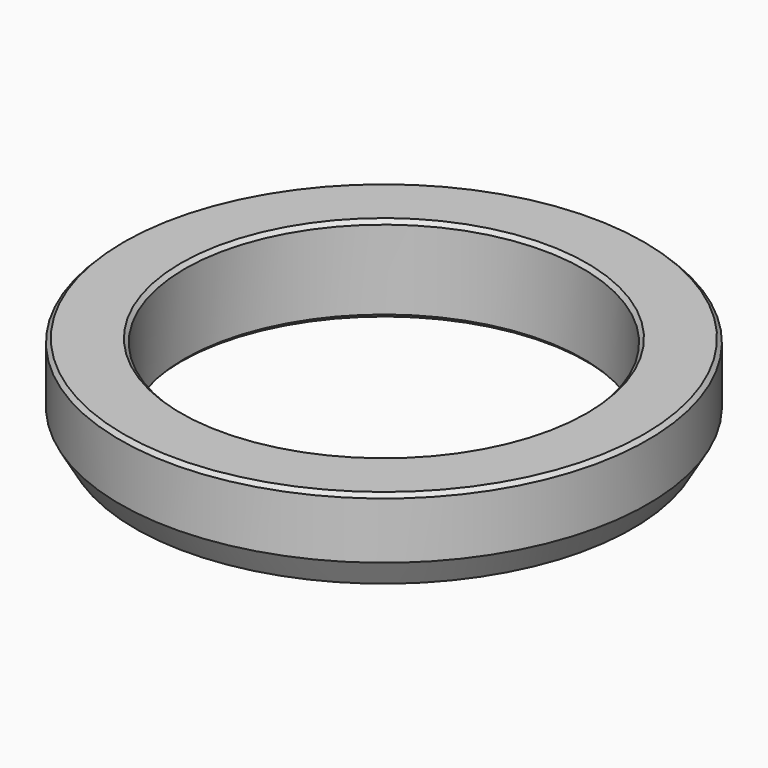
from build123d import *

# Parameters (mm, degrees)
F2_SIZE = 0.5


with BuildPart() as f1:
    # F0 (on Front) → F1 (revolve)
    with BuildSketch(Plane.XZ):
        Polygon((-32.7, 0), (-26.2, 0), (-26.2, 11.4), (-34.7, 11.4), (-34.7, 3.464102), align=None)
    revolve(axis=Axis((0, 0, 86.271172), (0, 0, -1)))

    # F2
    f2_edges = [f1.edges().sort_by_distance(p)[0] for p in [
        (26.2, 0, 11.4),
        (34.7, 0, 11.4),
        (26.2, 0, 0),
    ]]
    chamfer(f2_edges, length=F2_SIZE)


solid = f1.part
